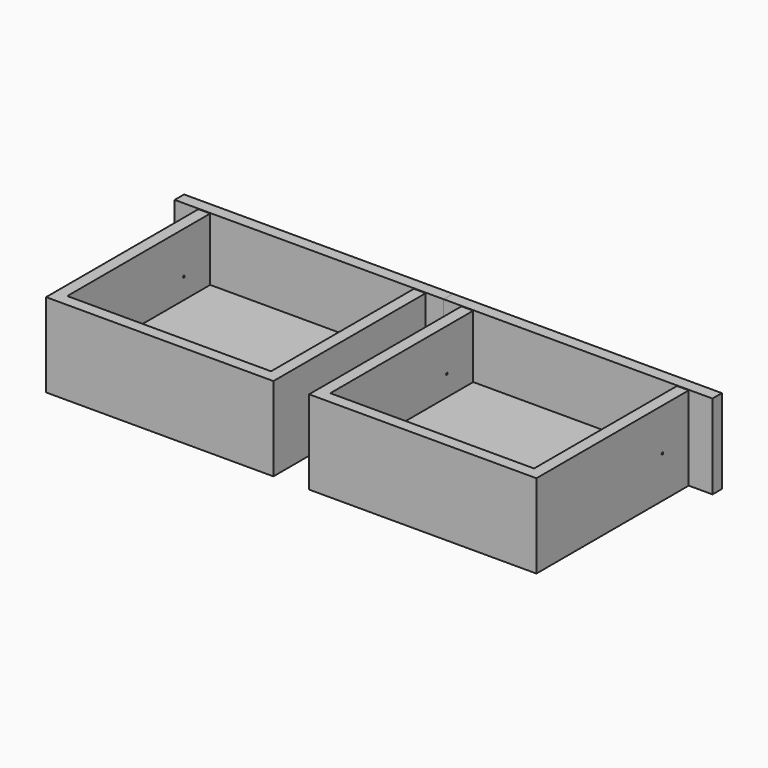
from build123d import *

# Parameters (mm, degrees)
F0_W     = 274
F0_H     = 86
F1_DEPTH = 12
F2_W     = 231.6
F2_H     = 85.5
F3_DEPTH = 194
F4_W     = 207.6
F4_H     = 182
F5_DEPTH = 64
F6_R     = 5
F7_DEPTH = 5
F13_R    = 10
F13_R_2  = 5
F8_DEPTH = 8
F14_R    = 3
F10_D    = 2


with BuildPart() as f1:
    # F0 (on Front) → F1 (new body)
    with BuildSketch(Plane.XZ):
        Rectangle(F0_W, F0_H)
    extrude(amount=F1_DEPTH)

    # F2 (on face) → F3 (join)
    with BuildSketch(Plane.XZ.offset(12)):
        with Locations((-3, -0.25)):
            Rectangle(F2_W, F2_H)
    extrude(amount=F3_DEPTH)

    # F4 (on face) → F5 (cut)
    with BuildSketch(Plane.XY.offset(42.5)):
        with Locations((-3, -103)):
            Rectangle(F4_W, F4_H)
    extrude(amount=-F5_DEPTH, mode=Mode.SUBTRACT)

    # F6 (on face) → F7 (join)
    with BuildSketch(Plane(origin=(0, 0, 0), x_dir=(-1, 0, 0), z_dir=(0, 1, 0))):
        Circle(F6_R)
    extrude(amount=F7_DEPTH)

    # F13 (on face) → F8 (join)
    with BuildSketch(Plane(origin=(0, 5, 0), x_dir=(-1, 0, 0), z_dir=(0, 1, 0))):
        Circle(F13_R)
        Circle(F13_R_2, mode=Mode.SUBTRACT)
        Circle(F13_R_2)
    extrude(amount=F8_DEPTH)

    # F14
    f14_edges = [f1.edges().sort_by_distance(p)[0] for p in [
        (10, 13, 0),
        (10, 5, 0),
    ]]
    fillet(f14_edges, radius=F14_R)

    # F10 (through all)
    with Locations(Plane.YZ.offset(112.8)):
        with Locations((-45.5, -0.5)):
            Hole(F10_D / 2)


with BuildPart() as f12_1:
    # F12: instance of F1
    add(f1.part.mirror(Plane(origin=(-137, -6, 0), x_dir=(0, -1, 0), z_dir=(-1, 0, 0))))


solid = Compound([f1.part, f12_1.part])
